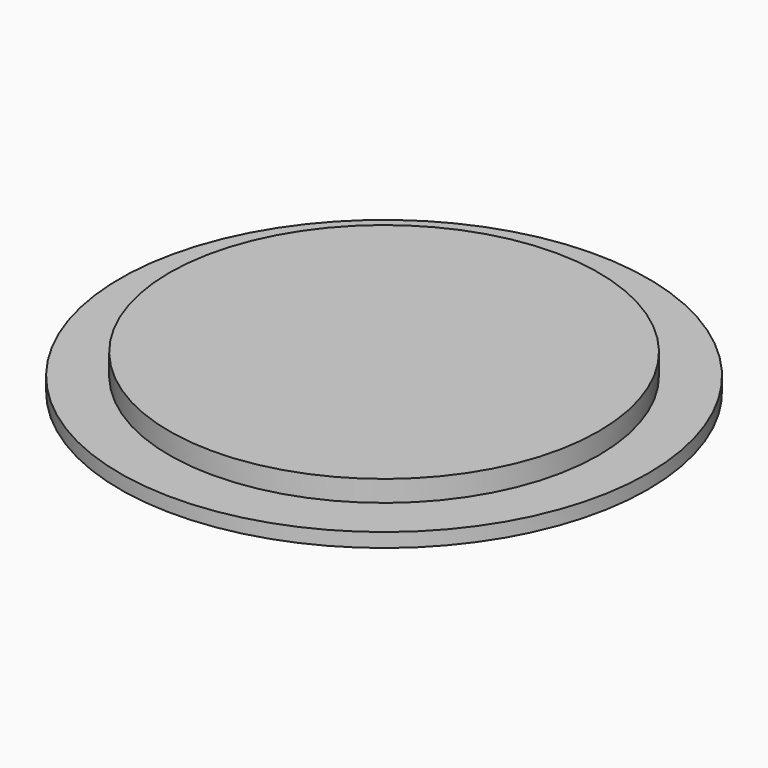
from build123d import *

# Parameters (mm, degrees)
TORUS_R           = 4
CYLINDER003_R     = 18
CYLINDER003_DEPTH = 2
BOX_W             = 7
BOX_H             = 41
BOX_DEPTH         = 10
CYLINDER002_R     = 18
CYLINDER002_DEPTH = 10
CYLINDER001_R     = 75
CYLINDER001_DEPTH = 4
CYLINDER_R        = 61
CYLINDER_DEPTH    = 10


with BuildPart() as torus:
    # Torus → Torus (revolve)
    with BuildSketch(Plane.XZ):
        with Locations((40, 0)):
            Circle(TORUS_R)
    revolve(axis=Axis((0, 0, 0), (0, 0, 1)))


with BuildPart() as cylinder003:
    # Cylinder003 → Cylinder003 (new body)
    with BuildSketch(Plane.XY.offset(8)):
        Circle(CYLINDER003_R)
    extrude(amount=CYLINDER003_DEPTH)


with BuildPart() as box:
    # Box → Box (new body)
    with BuildSketch(Plane(origin=(-3, -20, 0), x_dir=(1, 0, 0), z_dir=(0, 0, 1))):
        with Locations((3.5, 20.5)):
            Rectangle(BOX_W, BOX_H)
    extrude(amount=BOX_DEPTH)


with BuildPart() as cylinder002:
    # Cylinder002 → Cylinder002 (new body)
    with BuildSketch(Plane.XY):
        Circle(CYLINDER002_R)
    extrude(amount=CYLINDER002_DEPTH)


with BuildPart() as cylinder001:
    # Cylinder001 → Cylinder001 (new body)
    with BuildSketch(Plane.XY):
        Circle(CYLINDER001_R)
    extrude(amount=CYLINDER001_DEPTH)


with BuildPart() as cut001:
    # Cylinder → Cylinder (new body)
    with BuildSketch(Plane.XY):
        Circle(CYLINDER_R)
    extrude(amount=CYLINDER_DEPTH)

    # Fusion: union Cylinder001
    add(cylinder001.part)

    # Cut: cut Cylinder002
    add(cylinder002.part, mode=Mode.SUBTRACT)

    # Fusion001: union Box
    add(box.part)

    # Fusion002: union Cylinder003
    add(cylinder003.part)

    # Cut001: cut Torus
    add(torus.part, mode=Mode.SUBTRACT)


solid = cut001.part
